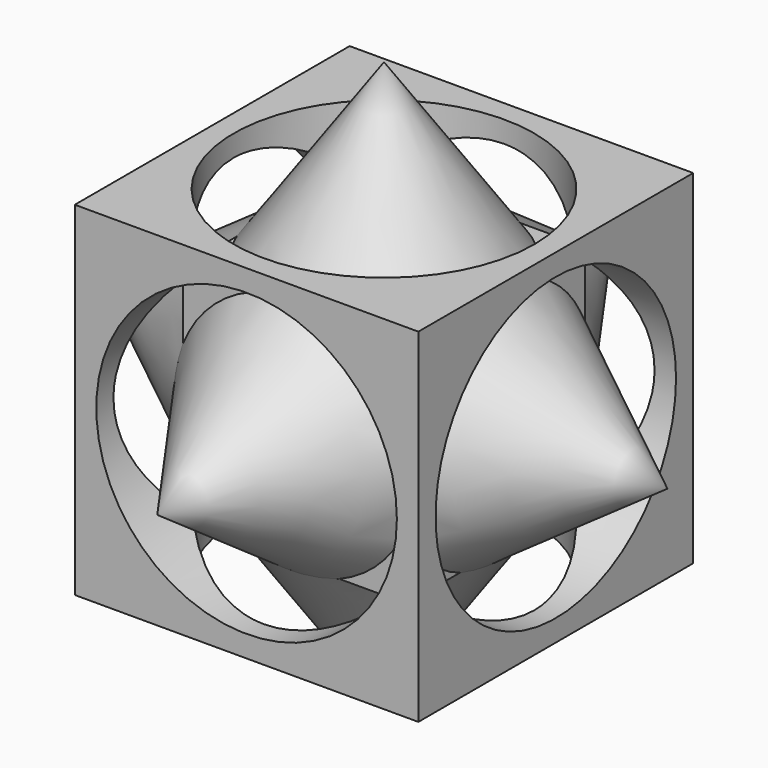
from build123d import *

# Parameters (mm, degrees)
F0_W      = 101.6
F0_H      = 101.6
F1_DEPTH  = 50.8
F2_R      = 44.45
F3_DEPTH  = 17.78
F4_R      = 44.45
F5_DEPTH  = 17.78
F6_R      = 44.45
F7_DEPTH  = 17.78
F8_R      = 44.45
F9_DEPTH  = 17.78
F10_R     = 44.45
F11_DEPTH = 17.78
F12_R     = 44.45
F13_DEPTH = 17.78


with BuildPart() as f1:
    # F0 (on Front) → F1 (new body, symmetric)
    with BuildSketch(Plane.XZ):
        Rectangle(F0_W, F0_H)
    extrude(amount=F1_DEPTH, both=True)

    # F2 (on face) → F3 (cut)
    with BuildSketch(Plane.XZ.offset(50.8)):
        Circle(F2_R)
    extrude(amount=-F3_DEPTH, mode=Mode.SUBTRACT)

    # F4 (on face) → F5 (cut)
    with BuildSketch(Plane(origin=(0, 0, -50.8), x_dir=(1, 0, 0), z_dir=(0, 0, -1))):
        Circle(F4_R)
    extrude(amount=-F5_DEPTH, mode=Mode.SUBTRACT)

    # F6 (on face) → F7 (cut)
    with BuildSketch(Plane.YZ.offset(50.8)):
        Circle(F6_R)
    extrude(amount=-F7_DEPTH, mode=Mode.SUBTRACT)

    # F8 (on face) → F9 (cut)
    with BuildSketch(Plane.XY.offset(50.8)):
        Circle(F8_R)
    extrude(amount=-F9_DEPTH, mode=Mode.SUBTRACT)

    # F10 (on face) → F11 (cut)
    with BuildSketch(Plane(origin=(0, 50.8, 0), x_dir=(-1, 0, 0), z_dir=(0, 1, 0))):
        Circle(F10_R)
    extrude(amount=-F11_DEPTH, mode=Mode.SUBTRACT)

    # F12 (on face) → F13 (cut)
    with BuildSketch(Plane(origin=(-50.8, 0, 0), x_dir=(0, -1, 0), z_dir=(-1, 0, 0))):
        Circle(F12_R)
    extrude(amount=-F13_DEPTH, mode=Mode.SUBTRACT)

    # F14 (on Front) → F15 (revolve)
    with BuildSketch(Plane.XZ):
        Polygon((-35.56, 33.02), (0, 33.02), (0, 83.82), align=None)
        Polygon((35.56, -33.02), (0, -33.02), (0, -83.82), align=None)
    revolve(axis=Axis((0, 0, -58.42), (0, 0, 1)))

    # F16 (on Front) → F17 (revolve)
    with BuildSketch(Plane.XZ):
        Polygon((-83.82, 0), (-33.02, 0), (-33.02, 35.56), align=None)
        Polygon((83.82, 0), (33.02, 0), (33.02, -35.56), align=None)
    revolve(axis=Axis((58.42, 0, 0), (-1, 0, 0)))

    # F18 (on Right) → F19 (revolve)
    with BuildSketch(Plane.YZ):
        Polygon((-83.82, 0), (-33.02, 0), (-33.02, 35.56), align=None)
        Polygon((83.82, 0), (33.02, 0), (33.02, -35.56), align=None)
    revolve(axis=Axis((0, 58.42, 0), (0, -1, 0)))


solid = f1.part
